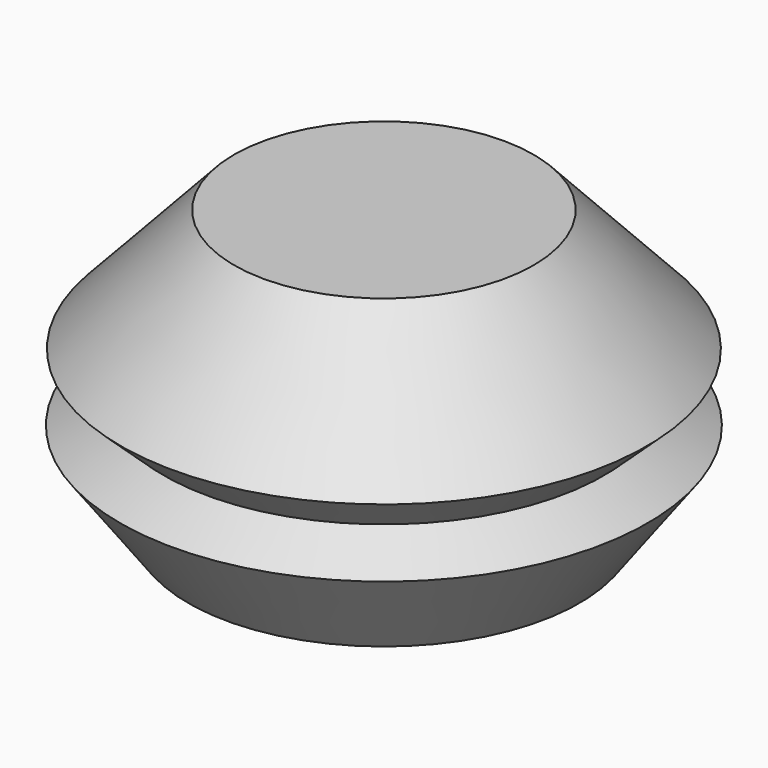
from build123d import *


with BuildPart() as f1:
    # F0 (on Front) → F1 (revolve)
    with BuildSketch(Plane.XZ):
        Polygon((-62.520474, 21.961808), (-46.335138, 0), (0, 0), (0, 28.473154), (-52.102327, 28.473154), align=None)
        Polygon((-52.102327, 28.473154), (0, 28.473154), (0, 66.922366), (-35.479439, 66.922366), (-62.334433, 37.96111), align=None)
    revolve(axis=Axis((0, 0, 33.461183), (0, 0, -1)))


solid = f1.part
